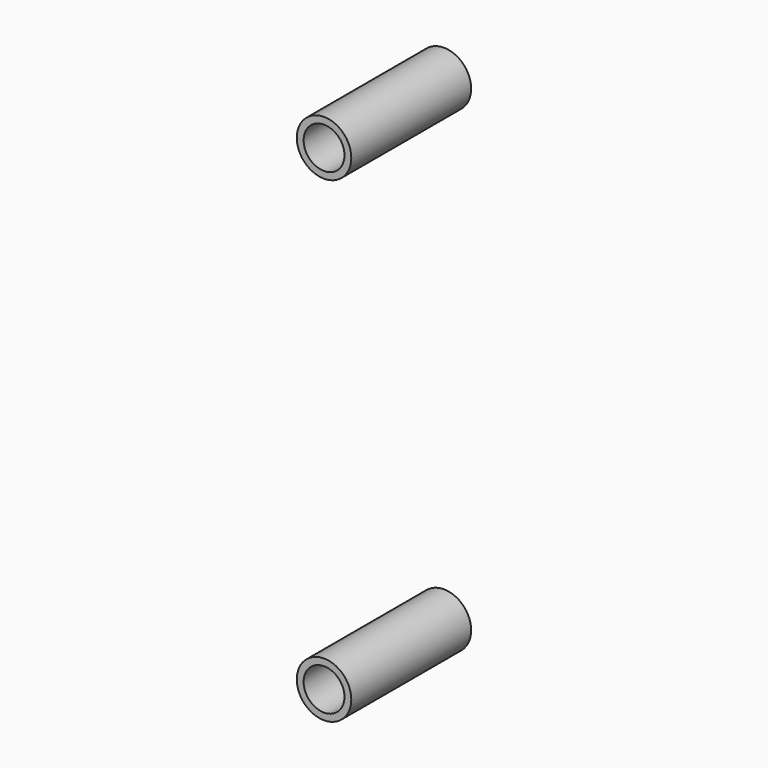
from build123d import *

# Parameters (mm, degrees)
CYLINDER014_R          = 3
CYLINDER014_DEPTH      = 22
CYLINDER014_ROLL_ANGLE = 90
CYLINDER012_R          = 1.15
CYLINDER012_DEPTH      = 6
CYLINDER012_ROLL_ANGLE = 90
CYLINDER011_R          = 4
CYLINDER011_DEPTH      = 22
CYLINDER011_ROLL_ANGLE = 90
CYLINDER_R             = 3
CYLINDER_DEPTH         = 22
CYLINDER_ROLL_ANGLE    = 90
CYLINDER013_R          = 1.15
CYLINDER013_DEPTH      = 6
CYLINDER013_ROLL_ANGLE = 90
CYLINDER010_R          = 4
CYLINDER010_DEPTH      = 22
CYLINDER010_ROLL_ANGLE = 90


with BuildPart() as cylinder014:
    # Cylinder014 → Cylinder014 (new body)
    with BuildSketch(Plane.XY):
        Circle(CYLINDER014_R)
    extrude(amount=CYLINDER014_DEPTH)


with BuildPart() as cylinder014_1:
    # Cylinder014 roll: moved
    add(cylinder014.part.rotate(Axis((0, 0, 0), (1, 0, 0)), CYLINDER014_ROLL_ANGLE))


with BuildPart() as cylinder014_2:
    # Cylinder014 placement: moved
    add(cylinder014_1.part.moved(Location((0, -1, 5))))


with BuildPart() as fusion004:
    # Cylinder012 → Cylinder012 (new body)
    with BuildSketch(Plane.XY):
        Circle(CYLINDER012_R)
    extrude(amount=CYLINDER012_DEPTH)


with BuildPart() as fusion004_1:
    # Cylinder012 roll: moved
    add(fusion004.part.rotate(Axis((0, 0, 0), (1, 0, 0)), CYLINDER012_ROLL_ANGLE))


with BuildPart() as fusion004_2:
    # Cylinder012 placement: moved
    add(fusion004_1.part.moved(Location((0, 5, 5))))

    # Fusion004: union Cylinder014
    add(cylinder014_2.part)


with BuildPart() as cut001:
    # Cylinder011 → Cylinder011 (new body)
    with BuildSketch(Plane.XY):
        Circle(CYLINDER011_R)
    extrude(amount=CYLINDER011_DEPTH)


with BuildPart() as cut001_1:
    # Cylinder011 roll: moved
    add(cut001.part.rotate(Axis((0, 0, 0), (1, 0, 0)), CYLINDER011_ROLL_ANGLE))


with BuildPart() as cut001_2:
    # Cylinder011 placement: moved
    add(cut001_1.part.moved(Location((0, 0, 5))))

    # Cut001: cut Fusion004
    add(fusion004_2.part, mode=Mode.SUBTRACT)


with BuildPart() as cylinder:
    # Cylinder → Cylinder (new body)
    with BuildSketch(Plane.XY):
        Circle(CYLINDER_R)
    extrude(amount=CYLINDER_DEPTH)


with BuildPart() as cylinder_1:
    # Cylinder roll: moved
    add(cylinder.part.rotate(Axis((0, 0, 0), (1, 0, 0)), CYLINDER_ROLL_ANGLE))


with BuildPart() as cylinder_2:
    # Cylinder placement: moved
    add(cylinder_1.part.moved(Location((0, -1, 75))))


with BuildPart() as fusion:
    # Cylinder013 → Cylinder013 (new body)
    with BuildSketch(Plane.XY):
        Circle(CYLINDER013_R)
    extrude(amount=CYLINDER013_DEPTH)


with BuildPart() as fusion_1:
    # Cylinder013 roll: moved
    add(fusion.part.rotate(Axis((0, 0, 0), (1, 0, 0)), CYLINDER013_ROLL_ANGLE))


with BuildPart() as fusion_2:
    # Cylinder013 placement: moved
    add(fusion_1.part.moved(Location((0, 5, 75))))

    # Fusion: union Cylinder
    add(cylinder_2.part)


with BuildPart() as fusion005:
    # Cylinder010 → Cylinder010 (new body)
    with BuildSketch(Plane.XY):
        Circle(CYLINDER010_R)
    extrude(amount=CYLINDER010_DEPTH)


with BuildPart() as fusion005_1:
    # Cylinder010 roll: moved
    add(fusion005.part.rotate(Axis((0, 0, 0), (1, 0, 0)), CYLINDER010_ROLL_ANGLE))


with BuildPart() as fusion005_2:
    # Cylinder010 placement: moved
    add(fusion005_1.part.moved(Location((0, 0, 75))))

    # Cut002: cut Fusion
    add(fusion_2.part, mode=Mode.SUBTRACT)

    # Fusion005: union Cut001
    add(cut001_2.part)


solid = fusion005_2.part
